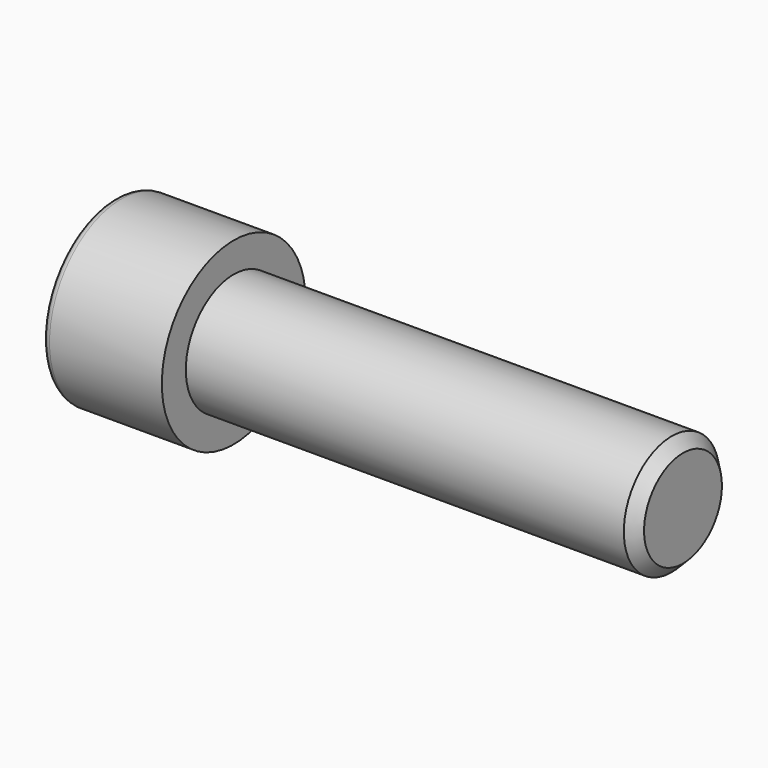
from build123d import *

# Parameters (mm, degrees)
F2_R     = 1
F3_SIZE  = 1.5
F5_DEPTH = 7


with BuildPart() as f1:
    # F0 (on Top) → F1 (revolve)
    with BuildSketch(Plane.XY):
        Polygon((-30.745121, 12), (-30.745121, 0), (45.254879, 0), (45.254879, 8), (-14.745121, 8), (-14.745121, 12), align=None)
    revolve(axis=Axis((0.541581, 0, 0), (1, 0, 0)))

    # F2
    f2_edges = [f1.edges().sort_by_distance(p)[0] for p in [
        (-30.745121, -12, 0),
    ]]
    fillet(f2_edges, radius=F2_R)

    # F3
    f3_edges = [f1.edges().sort_by_distance(p)[0] for p in [
        (45.254879, -8, 0),
    ]]
    chamfer(f3_edges, length=F3_SIZE)

    # F4 (on face) → F5 (cut)
    with BuildSketch(Plane(origin=(-30.745121, 0, 0), x_dir=(0, -1, 0), z_dir=(-1, 0, 0))):
        Polygon((7, -4.041452), (7, 2.453793), (7, 4.041452), (0, 8.082904), (-7, 4.041452), (-7, 2.453793), (-7, -4.041452), (0, -8.082904), align=None)
    extrude(amount=-F5_DEPTH, mode=Mode.SUBTRACT)

    # F6 (on Front) → F7 (revolve, cut)
    with BuildSketch(Plane.XZ):
        Polygon((-29.745121, 7.082904), (-30.745121, 8.082904), (-30.745121, 0), (-29.745121, 0), align=None)
    revolve(axis=Axis((0.541581, 0, 0), (1, 0, 0)), mode=Mode.SUBTRACT)


with BuildPart() as f8_1:
    # F8: copy of F1
    add(f1.part)


solid = f1.part
